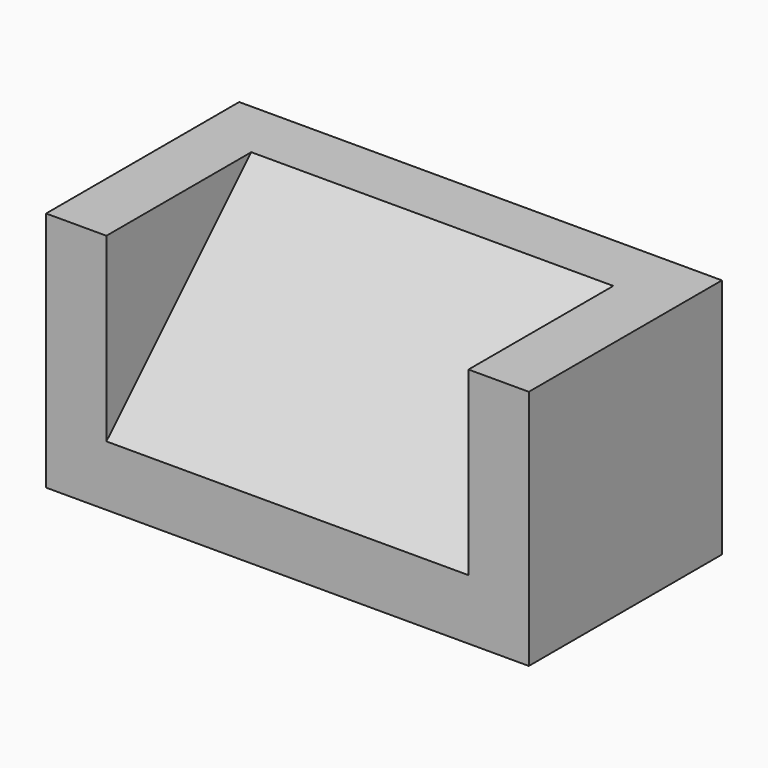
from build123d import *

# Parameters (mm, degrees)
F0_W     = 203.2
F0_H     = 101.6
F1_DEPTH = 101.6
F2_W     = 152.4
F2_H     = 76.2
F3_DEPTH = 76.2
F5_DEPTH = 152.4


with BuildPart() as f1:
    # F0 (on Top) → F1 (new body)
    with BuildSketch(Plane.XY):
        Rectangle(F0_W, F0_H)
    extrude(amount=F1_DEPTH)

    # F2 (on face) → F3 (cut)
    with BuildSketch(Plane.XY.offset(101.6)):
        with Locations((0, -12.7)):
            Rectangle(F2_W, F2_H)
    extrude(amount=-F3_DEPTH, mode=Mode.SUBTRACT)

    # F4 (on face) → F5 (join)
    with BuildSketch(Plane.YZ.offset(-76.2)):
        Polygon((25.4, 25.4), (25.4, 101.6), (-50.8, 25.4), align=None)
    extrude(amount=F5_DEPTH)


solid = f1.part
